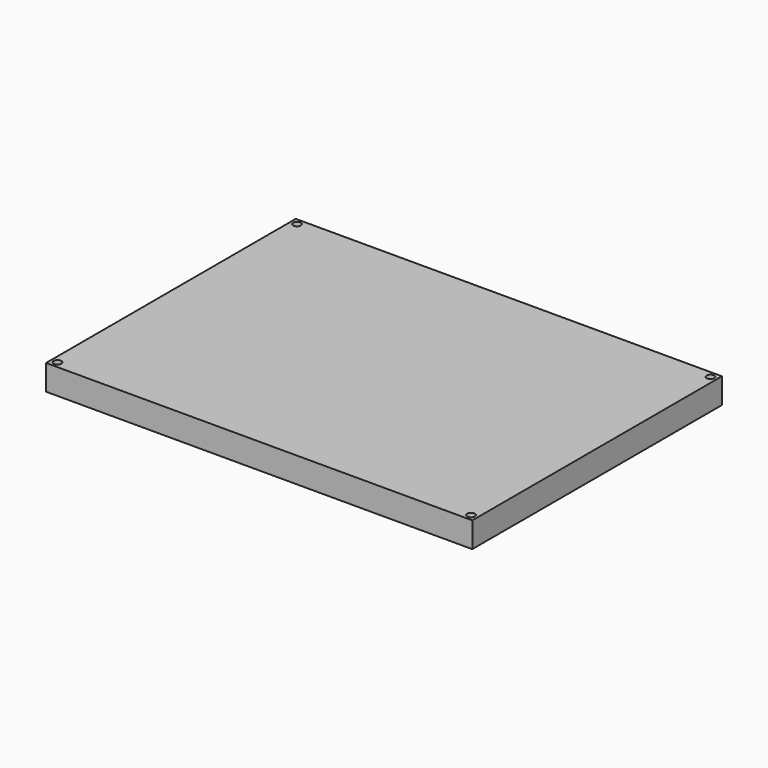
from build123d import *

# Parameters (mm, degrees)
SKETCH013_W               = 160
SKETCH013_H               = 115
EXTRUDE013_DEPTH          = 2
SKETCH012_W               = 168
SKETCH012_H               = 123
SKETCH012_R               = 1.5
SKETCH012_W_2             = 158
SKETCH012_H_2             = 113
EXTRUDE012_DEPTH          = 10
FUSION003_PLACEMENT_ANGLE = 180


with BuildPart() as extrude013:
    # Sketch013 → Extrude013 (new body)
    with BuildSketch(Plane.XY):
        Rectangle(SKETCH013_W, SKETCH013_H)
    extrude(amount=EXTRUDE013_DEPTH)


with BuildPart() as fusion003:
    # Sketch012 → Extrude012 (new body)
    with BuildSketch(Plane.XY):
        Rectangle(SKETCH012_W, SKETCH012_H)
        with Locations((-81.5, 59)):
            Circle(SKETCH012_R, mode=Mode.SUBTRACT)
        with Locations((81.5, 59)):
            Circle(SKETCH012_R, mode=Mode.SUBTRACT)
        with Locations((81.5, -59)):
            Circle(SKETCH012_R, mode=Mode.SUBTRACT)
        with Locations((-81.5, -59)):
            Circle(SKETCH012_R, mode=Mode.SUBTRACT)
        Rectangle(SKETCH012_W_2, SKETCH012_H_2, mode=Mode.SUBTRACT)
    extrude(amount=EXTRUDE012_DEPTH)

    # Fusion003: union Extrude013
    add(extrude013.part)


with BuildPart() as fusion003_1:
    # Fusion003 placement: moved
    add(fusion003.part.moved(Location((0, 0, 39.5))).rotate(Axis((0, 0, 39.5), (1, 0, 0)), FUSION003_PLACEMENT_ANGLE))


solid = fusion003_1.part
